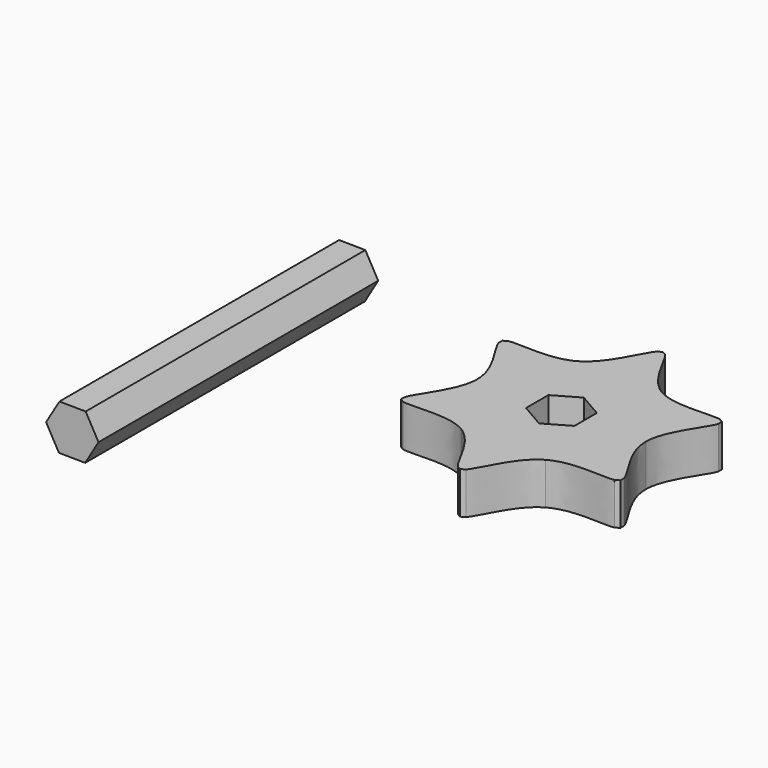
from build123d import *

# Parameters (mm, degrees)
F1_DEPTH = 50
F3_DEPTH = 6
F5_DEPTH = 25


with BuildPart() as f1:
    # F0 (on Front) → F1 (new body)
    with BuildSketch(Plane.XZ):
        Polygon((-26.2049326301, 13.8121203759), (-28.0435276902, 17.0807340419), (-31.7935276902, 17.1227708456), (-33.7049326301, 13.8961939833), (-31.8663375699, 10.6275803172), (-28.1163375699, 10.5855435136), align=None)
    extrude(amount=F1_DEPTH)


with BuildPart() as f3:
    # F2 (on Top) → F3 (new body)
    with BuildSketch(Plane.XY):
        with BuildLine():
            Line((-12.0627175372, -0.0144388362), (-6.0438631676, 10.4394004078))
            add(Edge.make_bspline(
                [(-15.1358744038, 9.3928904921), (-13.4915543772, 9.7654312673), (-8.9864380154, 8.7432919796), (-6.0438631676, 10.4394004078)],
                knots=[0.0120150375, 0.0120150375, 0.0120150375, 0.0120150375, 0.0832761836, 0.0832761836, 0.0832761836, 0.0832761836], degree=3))
            Line((-15.1358744038, 9.3928904921), (-15.702418983, 9.0657958268))
            Line((-15.702418983, 9.0657958268), (-15.702418983, 8.4101986204))
            add(Edge.make_bspline(
                [(-12.0627175372, -0.0144388362), (-12.0602995384, 3.3869694731), (-15.2024796508, 6.7943184808), (-15.702418983, 8.4101986204)],
                knots=[0.9166095169, 0.9166095169, 0.9166095169, 0.9166095169, 0.9879757698, 0.9879757698, 0.9879757698, 0.9879757698], degree=3))
        make_face()
        Polygon((6.0438631676, -10.4394004078), (12.0627175372, 0.0144388362), (6.0188543696, 10.453839244), (-6.0438631676, 10.4394004078), (-12.0627175372, -0.0144388362), (-6.0188543696, -10.453839244), align=None)
        with BuildLine():
            add(Edge.make_bspline(
                [(0.5665445792, 17.8044969882), (1.7113343678, 16.5667444608), (3.0786939593, 12.1541296007), (6.0188543696, 10.453839244)],
                knots=[0.1786817042, 0.1786817042, 0.1786817042, 0.1786817042, 0.2499428502, 0.2499428502, 0.2499428502, 0.2499428502], degree=3))
            Line((0.5665445792, 17.8044969882), (0, 18.1315916535))
            Line((0, 18.1315916535), (-0.5677638354, 17.8037930503))
            add(Edge.make_bspline(
                [(-6.0438631676, 10.4394004078), (-3.0969481636, 12.1380105141), (-1.7171874196, 16.5628928185), (-0.5677638354, 17.8037930503)],
                knots=[0.0832761836, 0.0832761836, 0.0832761836, 0.0832761836, 0.1546424364, 0.1546424364, 0.1546424364, 0.1546424364], degree=3))
            Line((-6.0438631676, 10.4394004078), (6.0188543696, 10.453839244))
        make_face()
        with BuildLine():
            Line((15.702418983, 8.4116064961), (15.702418983, 9.0657958268))
            Line((15.702418983, 9.0657958268), (15.1346551476, 9.39359443))
            add(Edge.make_bspline(
                [(6.0188543696, 10.453839244), (8.9633513748, 8.751041041), (13.4852922312, 9.7685743377), (15.1346551476, 9.39359443)],
                knots=[0.2499428502, 0.2499428502, 0.2499428502, 0.2499428502, 0.3213091031, 0.3213091031, 0.3213091031, 0.3213091031], degree=3))
            Line((6.0188543696, 10.453839244), (12.0627175372, 0.0144388362))
            add(Edge.make_bspline(
                [(15.702418983, 8.4116064961), (15.2028887449, 6.8013131935), (12.0651319747, 3.4108376211), (12.0627175372, 0.0144388362)],
                knots=[0.3453483708, 0.3453483708, 0.3453483708, 0.3453483708, 0.4166095169, 0.4166095169, 0.4166095169, 0.4166095169], degree=3))
        make_face()
        with BuildLine():
            Line((15.702418983, -9.0657958268), (15.702418983, -8.4101986204))
            add(Edge.make_bspline(
                [(12.0627175372, 0.0144388362), (12.0602995384, -3.3869694731), (15.2024796508, -6.7943184808), (15.702418983, -8.4101986204)],
                knots=[0.4166095169, 0.4166095169, 0.4166095169, 0.4166095169, 0.4879757698, 0.4879757698, 0.4879757698, 0.4879757698], degree=3))
            Line((12.0627175372, 0.0144388362), (6.0438631676, -10.4394004078))
            add(Edge.make_bspline(
                [(15.1358744038, -9.3928904921), (13.4915543772, -9.7654312673), (8.9864380154, -8.7432919796), (6.0438631676, -10.4394004078)],
                knots=[0.5120150375, 0.5120150375, 0.5120150375, 0.5120150375, 0.5832761836, 0.5832761836, 0.5832761836, 0.5832761836], degree=3))
            Line((15.1358744038, -9.3928904921), (15.702418983, -9.0657958268))
        make_face()
        with BuildLine():
            add(Edge.make_bspline(
                [(6.0438631676, -10.4394004078), (3.0969481636, -12.1380105141), (1.7171874196, -16.5628928185), (0.5677638354, -17.8037930503)],
                knots=[0.5832761836, 0.5832761836, 0.5832761836, 0.5832761836, 0.6546424364, 0.6546424364, 0.6546424364, 0.6546424364], degree=3))
            Line((6.0438631676, -10.4394004078), (-6.0188543696, -10.453839244))
            add(Edge.make_bspline(
                [(-0.5665445792, -17.8044969882), (-1.7113343678, -16.5667444608), (-3.0786939593, -12.1541296007), (-6.0188543696, -10.453839244)],
                knots=[0.6786817042, 0.6786817042, 0.6786817042, 0.6786817042, 0.7499428502, 0.7499428502, 0.7499428502, 0.7499428502], degree=3))
            Line((-0.5665445792, -17.8044969882), (0, -18.1315916535))
            Line((0, -18.1315916535), (0.5677638354, -17.8037930503))
        make_face()
        with BuildLine():
            add(Edge.make_bspline(
                [(-6.0188543696, -10.453839244), (-8.9633513748, -8.751041041), (-13.4852922312, -9.7685743377), (-15.1346551476, -9.39359443)],
                knots=[0.7499428502, 0.7499428502, 0.7499428502, 0.7499428502, 0.8213091031, 0.8213091031, 0.8213091031, 0.8213091031], degree=3))
            Line((-6.0188543696, -10.453839244), (-12.0627175372, -0.0144388362))
            add(Edge.make_bspline(
                [(-15.702418983, -8.4116064961), (-15.2028887449, -6.8013131935), (-12.0651319747, -3.4108376211), (-12.0627175372, -0.0144388362)],
                knots=[0.8453483708, 0.8453483708, 0.8453483708, 0.8453483708, 0.9166095169, 0.9166095169, 0.9166095169, 0.9166095169], degree=3))
            Line((-15.702418983, -8.4116064961), (-15.702418983, -9.0657958268))
            Line((-15.702418983, -9.0657958268), (-15.1346551476, -9.39359443))
        make_face()
    extrude(amount=F3_DEPTH)

    # F4 (on face) → F5 (cut)
    with BuildSketch(Plane.XY.offset(6)):
        Polygon((3.4641016151, -2), (3.4641016151, 2), (0, 4), (-3.4641016151, 2), (-3.4641016151, -2), (0, -4), align=None)
    extrude(amount=-F5_DEPTH, mode=Mode.SUBTRACT)


solid = Compound([f1.part, f3.part])
